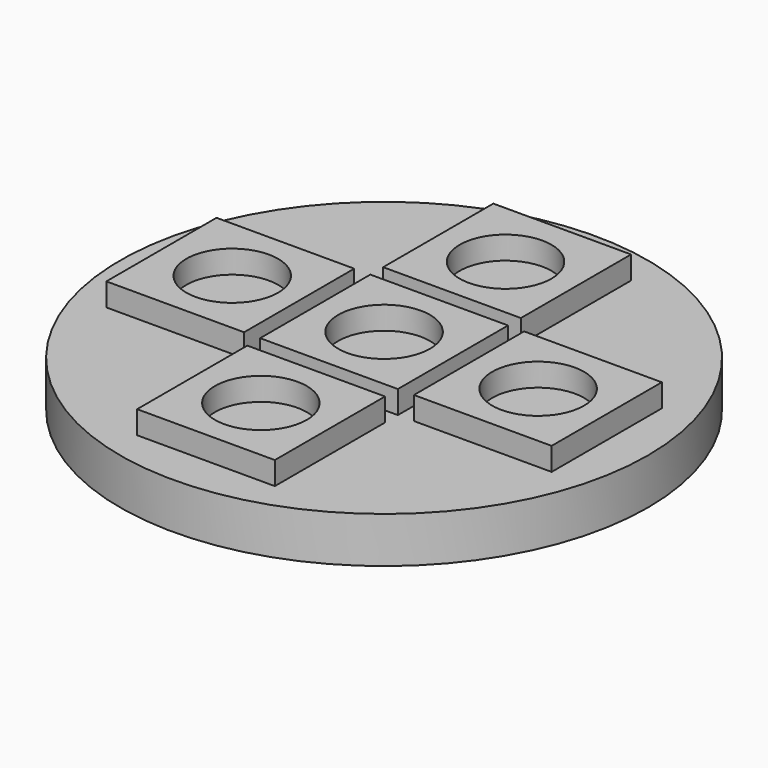
from build123d import *

# Parameters (mm, degrees)
CYLINDER_R      = 11.5
CYLINDER_DEPTH  = 2
SKETCH002_W     = 6
SKETCH002_H     = 6
PAD001_DEPTH    = 1
SKETCH003_R     = 2
POCKET001_DEPTH = 1
SKETCH004_W     = 6
SKETCH004_H     = 6
PAD002_DEPTH    = 1
SKETCH005_R     = 2
POCKET002_DEPTH = 1


with BuildPart() as part:
    # Cylinder → Cylinder (new body)
    with BuildSketch(Plane.XY):
        Circle(CYLINDER_R)
    extrude(amount=CYLINDER_DEPTH)

    # Sketch002 → Pad001 (new body)
    with BuildSketch(Plane.XY.offset(2)):
        Rectangle(SKETCH002_W, SKETCH002_H)
    extrude(amount=PAD001_DEPTH)

    # Sketch003 → Pocket001 (cut)
    with BuildSketch(Plane.XY.offset(3)):
        Circle(SKETCH003_R)
    extrude(amount=-POCKET001_DEPTH, mode=Mode.SUBTRACT)

    # Sketch004 → Pad002 (new body)
    with BuildSketch(Plane.XY.offset(2)):
        with Locations((0, 6.7)):
            Rectangle(SKETCH004_W, SKETCH004_H)
        with Locations((-6.7, 0)):
            Rectangle(SKETCH004_W, SKETCH004_H)
        with Locations((0, -6.7)):
            Rectangle(SKETCH004_W, SKETCH004_H)
        with Locations((6.7, 0)):
            Rectangle(SKETCH004_W, SKETCH004_H)
    extrude(amount=PAD002_DEPTH)

    # Sketch005 → Pocket002 (cut)
    with BuildSketch(Plane.XY.offset(3)):
        with Locations((0, 6.615592)):
            Circle(SKETCH005_R)
        with Locations((-6.615583, 0)):
            Circle(SKETCH005_R)
        with Locations((6.712149, 0)):
            Circle(SKETCH005_R)
        with Locations((0, -6.712142)):
            Circle(SKETCH005_R)
    extrude(amount=-POCKET002_DEPTH, mode=Mode.SUBTRACT)


with BuildPart() as part_1:
    # Clone002 placement: moved
    add(part.part.moved(Location((21, -7, -13))))


solid = part_1.part
